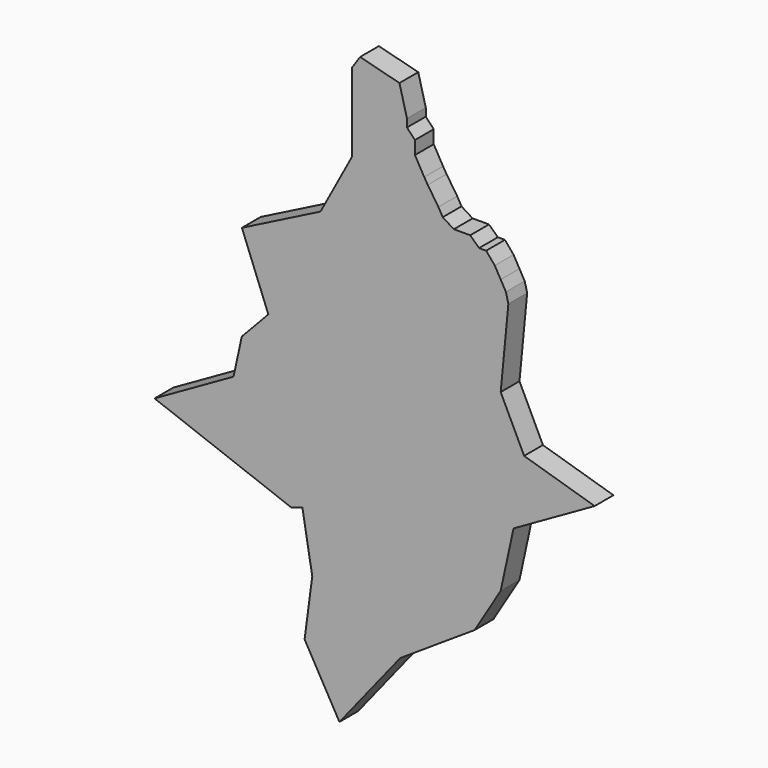
from build123d import *

# Parameters (mm, degrees)
F1_DEPTH = 3
F2_SCALE = 0.6


with BuildPart() as f1:
    # F0 (on Front) → F1 (new body)
    with BuildSketch(Plane.XZ):
        Polygon((1.3910490088, 38.3051857352), (-3.6360053346, 39.6043136716), (-4.6649789438, 38.0779765546), (-4.6649789438, 28.0484538525), (-8.694652468, 20.5713305622), (-18.7318380922, 15.4852615669), (-15.3588512912, 6.848028861), (-18.7413649335, 3.2623104389), (-19.7978429212, -1.5990479397), (-29.8871286213, -7.3253973387), (-12.3931569979, -13.9208259061), (-11.0025182366, -13.4662510827), (-9.7458269447, -20.7670312375), (-10.7237989575, -28.1813337487), (-6.2755574472, -36.0187143087), (1.4870599844, -26.3149570674), (10.9971901402, -20.069969818), (14.3194012509, -14.5789282396), (15.9598111512, -7.0306210286), (26.3209752738, -1.149962307), (17.3118170351, 1.5612578718), (14.3194012509, 7.7631301247), (15.2990790084, 18.0060230196), (14.9825164439, 19.2469840983), (14.3194012509, 20.4153303112), (13.5617544875, 21.7502322048), (12.4618653208, 23.0545718223), (11.5581247956, 23.0545718223), (10.428449139, 24.1277627647), (8.3385501057, 24.1277627647), (6.9153775882, 25.0160566247), (6.3616191037, 25.9917266667), (5.0060097128, 28.0251428485), (4.5541389845, 28.7594310939), (3.3679804765, 30.8493301272), (3.3679804765, 32.5438417494), (2.3512728512, 33.6170345545), (2.3512728512, 34.6337407827), align=None)
    extrude(amount=F1_DEPTH)


with BuildPart() as f1_1:
    # F2: moved
    add(f1.part.scale(F2_SCALE).moved(Location((-2.5102229789, -1.2, -14.4074857235))))


solid = f1_1.part
